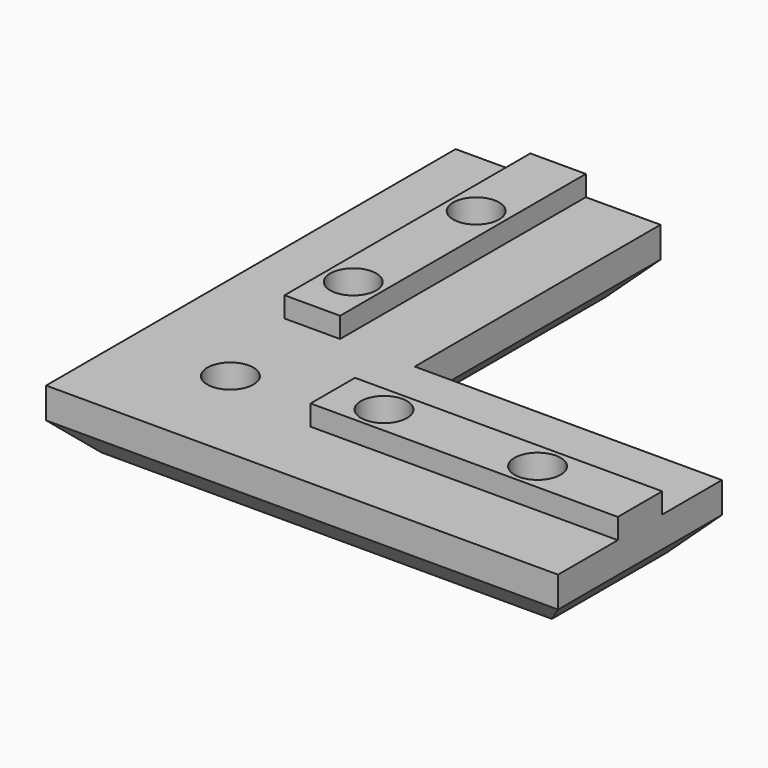
from build123d import *

# Parameters (mm, degrees)
F1_DEPTH = 6
F3_DEPTH = 2
F4_R     = 2.25
F5_DEPTH = 8.001
F6_R     = 3.75
F7_DEPTH = 2
F8_SIZE  = 3


with BuildPart() as f1:
    # F0 (on Top) → F1 (new body)
    with BuildSketch(Plane.XY):
        Polygon((0, 50), (0, 0), (50, 0), (50, 20), (20, 20), (20, 50), align=None)
    extrude(amount=F1_DEPTH)

    # F2 (on face) → F3 (join)
    with BuildSketch(Plane.XY.offset(6)):
        Polygon((12.71, 50), (7.29, 50), (7.29, 20), (10, 20), (12.71, 20), align=None)
        Polygon((50, 7.29), (50, 12.71), (20, 12.71), (20, 10), (20, 7.29), align=None)
    extrude(amount=F3_DEPTH)

    # F4 (on face) → F5 (cut, through all)
    with BuildSketch(Plane(origin=(0, 0, 0), x_dir=(1, 0, 0), z_dir=(0, 0, -1))):
        with Locations((10, -10)):
            Circle(F4_R)
        with Locations((40, -10)):
            Circle(F4_R)
        with Locations((10, -40)):
            Circle(F4_R)
        with Locations((25, -10)):
            Circle(F4_R)
        with Locations((10, -25)):
            Circle(F4_R)
    extrude(amount=-F5_DEPTH, mode=Mode.SUBTRACT)

    # F6 (on face) → F7 (cut)
    with BuildSketch(Plane(origin=(0, 0, 0), x_dir=(1, 0, 0), z_dir=(0, 0, -1))):
        with Locations((10, -10)):
            Circle(F6_R)
        with Locations((25, -10)):
            Circle(F6_R)
        with Locations((40, -10)):
            Circle(F6_R)
        with Locations((10, -25)):
            Circle(F6_R)
        with Locations((10, -40)):
            Circle(F6_R)
    extrude(amount=-F7_DEPTH, mode=Mode.SUBTRACT)

    # F8
    f8_edges = [f1.edges().sort_by_distance(p)[0] for p in [
        (25, 0, 0),
        (0, 25, 0),
        (20, 35, 0),
        (35, 20, 0),
        (50, 10, 0),
        (10, 50, 0),
    ]]
    chamfer(f8_edges, length=F8_SIZE)


solid = f1.part
